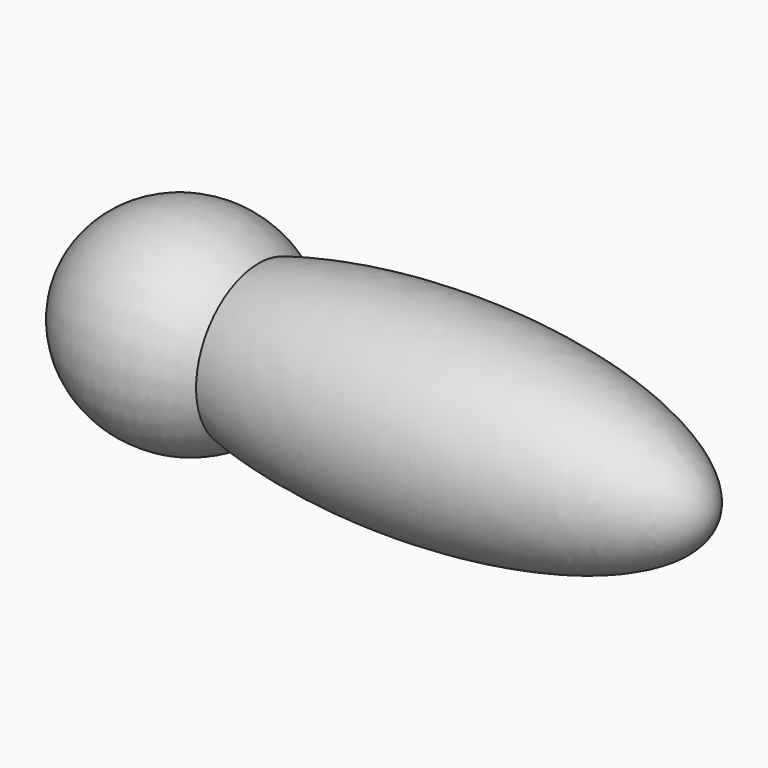
from build123d import *


with BuildPart() as f1:
    # F0 (on Front) → F1 (revolve)
    with BuildSketch(Plane.XZ):
        with BuildLine():
            Line((-51.6515262425, 0), (51.6515262425, 0))
            add(Edge.make_bspline(
                [(51.6515262425, 0), (51.6515262425, 18.4527915912), (0, 18.4527915912), (-51.6515262425, 18.4527915912), (-51.6515262425, 0)],
                knots=[0, 0, 0, 1.5707963268, 1.5707963268, 3.1415926536, 3.1415926536, 3.1415926536], degree=2, weights=[1, 0.7071067812, 1, 0.7071067812, 1]))
        make_face()
    revolve(axis=Axis((0, 0, 0), (1, 0, 0)))

    # F2 (on Front) → F3 (revolve)
    with BuildSketch(Plane.XZ):
        with BuildLine():
            Line((-66.4762426168, 0), (-24.8317997903, 0))
            add(Edge.make_bspline(
                [(-24.8317997903, 0), (-24.8317997903, 19.0494579272), (-45.6540212035, 19.0494579272), (-66.4762426168, 19.0494579272), (-66.4762426168, 0)],
                knots=[0, 0, 0, 1.5707963268, 1.5707963268, 3.1415926536, 3.1415926536, 3.1415926536], degree=2, weights=[1, 0.7071067812, 1, 0.7071067812, 1]))
        make_face()
    revolve(axis=Axis((-45.6540212035, 0, 0), (1, 0, 0)))


solid = f1.part
